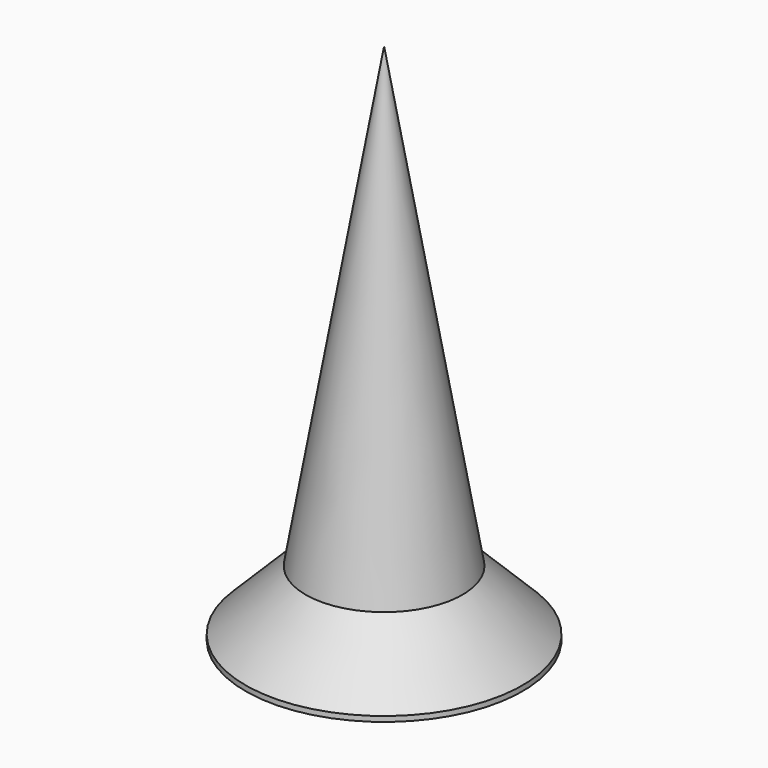
from build123d import *

# Parameters (mm, degrees)
POCKET004_DEPTH         = 0.3
POLARPATTERN_COUNT      = 2
POLARPATTERN_ANGLE      = 90
BODY014_PLACEMENT_ANGLE = 180


with BuildPart() as part:
    # Sketch026 → Revolution (revolve)
    with BuildSketch(Plane.XZ):
        Polygon((0, 0), (0, -10), (1.5, -1.25), (2.65, -0.1), (2.65, 0), align=None)
    revolve(axis=Axis((0, 0, 0), (0, 0, 1)))

    # Sketch027 → Pocket004 (cut, symmetric)
    with BuildSketch(Plane.XZ):
        Polygon((-2, 0), (0, -2), (2, 0), align=None)
    pocket004 = extrude(amount=POCKET004_DEPTH, both=True, mode=Mode.SUBTRACT)

    # PolarPattern: Pocket004 ×2 about axis
    polarpattern_axis = Axis((0, 0, 0), (0, 0, 1))
    for i in range(1, POLARPATTERN_COUNT):
        add(pocket004.rotate(polarpattern_axis, i * POLARPATTERN_ANGLE / (POLARPATTERN_COUNT - 1)), mode=Mode.SUBTRACT)


with BuildPart() as part_1:
    # Body014 placement: moved
    add(part.part.moved(Location((30, 5, -6))).rotate(Axis((30, 5, -6), (0, 1, 0)), BODY014_PLACEMENT_ANGLE))


solid = part_1.part
